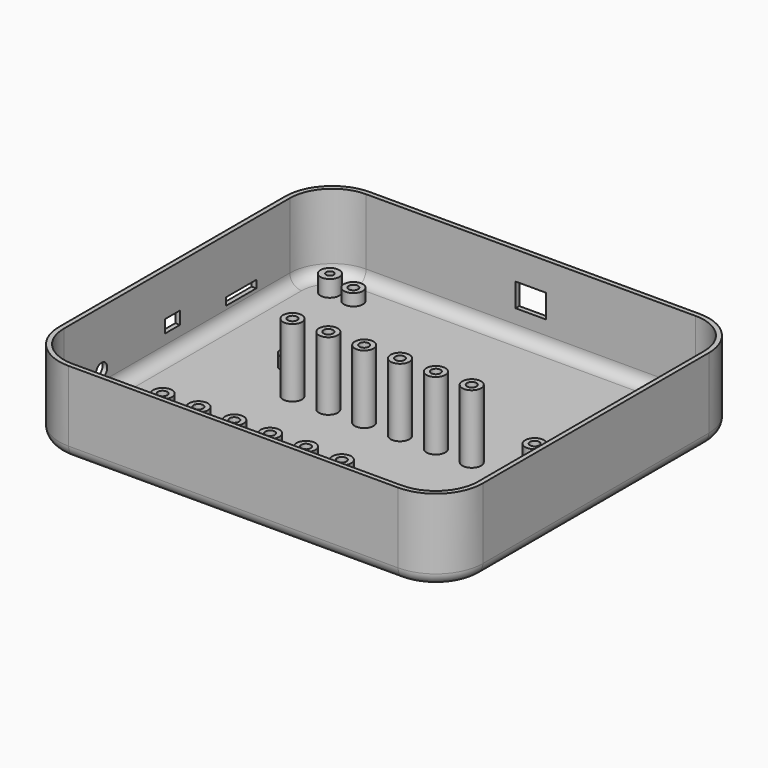
from build123d import *

# Parameters (mm, degrees)
CYLINDER_R              = 2.05
CYLINDER_DEPTH          = 8
CYLINDER_ROLL_ANGLE     = 90
SKETCH005_W             = 8
SKETCH005_H             = 6
PAD005_DEPTH            = 5
CYLINDER001_R           = 3
CYLINDER001_DEPTH       = 4
CYLINDER001_PITCH_ANGLE = 90
BOX002_W                = 10.5
BOX002_H                = 16
BOX002_DEPTH            = 3.2
BOX001_W                = 12.7
BOX001_H                = 8
BOX001_DEPTH            = 5.4
BOX_W                   = 13
BOX_H                   = 17
BOX_DEPTH               = 10
SKETCH003_R             = 4
SKETCH003_R_2           = 2
PAD003_DEPTH            = 5
SKETCH002_R             = 4
SKETCH002_R_2           = 1.6
PAD002_DEPTH            = 7
SKETCH001_W             = 176
SKETCH001_H             = 156
PAD001_DEPTH            = 33
FILLET002_R             = 18
FILLET003_R             = 5
SKETCH_W                = 180
SKETCH_H                = 160
SKETCH_R                = 1.6
PAD_DEPTH               = 35
FILLET_R                = 20
FILLET001_R             = 5
CHAMFER_SIZE            = 1.65
SKETCH004_R             = 4
SKETCH004_R_2           = 2
PAD004_DEPTH            = 29


with BuildPart() as zylinder:
    # Cylinder → Cylinder (new body)
    with BuildSketch(Plane.XY):
        Circle(CYLINDER_R)
    extrude(amount=CYLINDER_DEPTH)


with BuildPart() as zylinder_1:
    # Cylinder roll: moved
    add(zylinder.part.rotate(Axis((0, 0, 0), (1, 0, 0)), CYLINDER_ROLL_ANGLE))


with BuildPart() as zylinder_2:
    # Cylinder placement: moved
    add(zylinder_1.part.moved(Location((34, 19, 4.5))))


with BuildPart() as vibrationmotor:
    # Sketch005 → Pad005 (new body)
    with BuildSketch(Plane.XY.offset(2)):
        with Locations((34, 15)):
            Rectangle(SKETCH005_W, SKETCH005_H)
    extrude(amount=PAD005_DEPTH)

    # Cut002: cut Zylinder
    add(zylinder_2.part, mode=Mode.SUBTRACT)


with BuildPart() as obj1:
    # Cylinder001 → Cylinder001 (new body)
    with BuildSketch(Plane.XY):
        Circle(CYLINDER001_R)
    extrude(amount=CYLINDER001_DEPTH)


with BuildPart() as obj1_1:
    # Cylinder001 pitch: moved
    add(obj1.part.rotate(Axis((0, 0, 0), (0, 1, 0)), CYLINDER001_PITCH_ANGLE))


with BuildPart() as obj1_2:
    # Cylinder001 placement: moved
    add(obj1_1.part.moved(Location((-1, 40, 11.1))))


with BuildPart() as sd_card:
    # Box002 → Box002 (new body)
    with BuildSketch(Plane(origin=(-1, 106.17, 8.5), x_dir=(1, 0, 0), z_dir=(0, 0, 1))):
        with Locations((5.25, 8)):
            Rectangle(BOX002_W, BOX002_H)
    extrude(amount=BOX002_DEPTH)


with BuildPart() as on_off_switch:
    # Box001 → Box001 (new body)
    with BuildSketch(Plane(origin=(-2, 73.65, 11.3), x_dir=(1, 0, 0), z_dir=(0, 0, 1))):
        with Locations((6.35, 4)):
            Rectangle(BOX001_W, BOX001_H)
    extrude(amount=BOX001_DEPTH)


with BuildPart() as usb:
    # Box → Box (new body)
    with BuildSketch(Plane(origin=(83.5, 150, 13), x_dir=(1, 0, 0), z_dir=(0, 0, 1))):
        with Locations((6.5, 8.5)):
            Rectangle(BOX_W, BOX_H)
    extrude(amount=BOX_DEPTH)


with BuildPart() as pad003:
    # Sketch003 → Pad003 (new body)
    with BuildSketch(Plane.XY.offset(2)):
        with Locations((25, 145)):
            Circle(SKETCH003_R)
        with Locations((25, 145)):
            Circle(SKETCH003_R_2, mode=Mode.SUBTRACT)
        with Locations((155, 145)):
            Circle(SKETCH003_R)
        with Locations((155, 145)):
            Circle(SKETCH003_R_2, mode=Mode.SUBTRACT)
        with Locations((38, 95)):
            Circle(SKETCH003_R)
        with Locations((38, 95)):
            Circle(SKETCH003_R_2, mode=Mode.SUBTRACT)
        with Locations((142, 95)):
            Circle(SKETCH003_R)
        with Locations((142, 95)):
            Circle(SKETCH003_R_2, mode=Mode.SUBTRACT)
        with Locations((25, 15)):
            Circle(SKETCH003_R)
        with Locations((25, 15)):
            Circle(SKETCH003_R_2, mode=Mode.SUBTRACT)
        with Locations((155, 15)):
            Circle(SKETCH003_R)
        with Locations((155, 15)):
            Circle(SKETCH003_R_2, mode=Mode.SUBTRACT)
    extrude(amount=PAD003_DEPTH)


with BuildPart() as pad002:
    # Sketch002 → Pad002 (new body)
    with BuildSketch(Plane.XY.offset(2)):
        with Locations((15, 15)):
            Circle(SKETCH002_R)
        with Locations((15, 15)):
            Circle(SKETCH002_R_2, mode=Mode.SUBTRACT)
        with Locations((165, 15)):
            Circle(SKETCH002_R)
        with Locations((165, 15)):
            Circle(SKETCH002_R_2, mode=Mode.SUBTRACT)
        with Locations((165, 145)):
            Circle(SKETCH002_R)
        with Locations((165, 145)):
            Circle(SKETCH002_R_2, mode=Mode.SUBTRACT)
        with Locations((15, 145)):
            Circle(SKETCH002_R)
        with Locations((15, 145)):
            Circle(SKETCH002_R_2, mode=Mode.SUBTRACT)
    extrude(amount=PAD002_DEPTH)


with BuildPart() as fillet003:
    # Sketch001 → Pad001 (new body)
    with BuildSketch(Plane.XY.offset(2)):
        with Locations((90, 80)):
            Rectangle(SKETCH001_W, SKETCH001_H)
    extrude(amount=PAD001_DEPTH)

    # Fillet002
    fillet002_edges = [fillet003.edges().sort_by_distance(p)[0] for p in [
        (2, 2, 18.5),
        (2, 158, 18.5),
        (178, 158, 18.5),
        (178, 2, 18.5),
    ]]
    fillet(fillet002_edges, radius=FILLET002_R)

    # Fillet003
    fillet003_edges = [fillet003.edges().sort_by_distance(p)[0] for p in [
        (7.272078, 7.272078, 2),
        (90, 2, 2),
        (2, 80, 2),
        (7.272078, 152.727922, 2),
        (90, 158, 2),
        (172.727922, 152.727922, 2),
        (178, 80, 2),
        (172.727922, 7.272078, 2),
    ]]
    fillet(fillet003_edges, radius=FILLET003_R)


with BuildPart() as chamfer_body:
    # Sketch → Pad (new body)
    with BuildSketch(Plane.XY):
        with Locations((90, 80)):
            Rectangle(SKETCH_W, SKETCH_H)
        with Locations((15, 145)):
            Circle(SKETCH_R, mode=Mode.SUBTRACT)
        with Locations((15, 15)):
            Circle(SKETCH_R, mode=Mode.SUBTRACT)
        with Locations((165, 15)):
            Circle(SKETCH_R, mode=Mode.SUBTRACT)
        with Locations((165, 145)):
            Circle(SKETCH_R, mode=Mode.SUBTRACT)
    extrude(amount=PAD_DEPTH)

    # Fillet
    fillet_edges = [chamfer_body.edges().sort_by_distance(p)[0] for p in [
        (0, 0, 17.5),
        (180, 0, 17.5),
        (180, 160, 17.5),
        (0, 160, 17.5),
    ]]
    fillet(fillet_edges, radius=FILLET_R)

    # Fillet001
    fillet001_edges = [chamfer_body.edges().sort_by_distance(p)[0] for p in [
        (90, 0, 0),
        (5.857864, 5.857864, 0),
        (0, 80, 0),
        (5.857864, 154.142136, 0),
        (90, 160, 0),
        (174.142136, 154.142136, 0),
        (180, 80, 0),
        (174.142136, 5.857864, 0),
    ]]
    fillet(fillet001_edges, radius=FILLET001_R)

    # Cut: cut Fillet003
    add(fillet003.part, mode=Mode.SUBTRACT)

    # Chamfer
    chamfer_edges = [chamfer_body.edges().sort_by_distance(p)[0] for p in [
        (13.4, 15, 0),
        (163.4, 15, 0),
        (163.4, 145, 0),
        (13.4, 145, 0),
    ]]
    chamfer(chamfer_edges, length=CHAMFER_SIZE)


with BuildPart() as cut005:
    # Sketch004 → Pad004 (new body)
    with BuildSketch(Plane.XY.offset(2)):
        with Locations((51.92, 10)):
            Circle(SKETCH004_R)
        with Locations((51.92, 10)):
            Circle(SKETCH004_R_2, mode=Mode.SUBTRACT)
        with Locations((67.152, 10)):
            Circle(SKETCH004_R)
        with Locations((67.152, 10)):
            Circle(SKETCH004_R_2, mode=Mode.SUBTRACT)
        with Locations((82.384, 10)):
            Circle(SKETCH004_R)
        with Locations((82.384, 10)):
            Circle(SKETCH004_R_2, mode=Mode.SUBTRACT)
        with Locations((97.616, 10)):
            Circle(SKETCH004_R)
        with Locations((97.616, 10)):
            Circle(SKETCH004_R_2, mode=Mode.SUBTRACT)
        with Locations((112.848, 10)):
            Circle(SKETCH004_R)
        with Locations((112.848, 10)):
            Circle(SKETCH004_R_2, mode=Mode.SUBTRACT)
        with Locations((128.08, 10)):
            Circle(SKETCH004_R)
        with Locations((128.08, 10)):
            Circle(SKETCH004_R_2, mode=Mode.SUBTRACT)
        with Locations((51.92, 79)):
            Circle(SKETCH004_R)
        with Locations((51.92, 79)):
            Circle(SKETCH004_R_2, mode=Mode.SUBTRACT)
        with Locations((67.152, 79)):
            Circle(SKETCH004_R)
        with Locations((67.152, 79)):
            Circle(SKETCH004_R_2, mode=Mode.SUBTRACT)
        with Locations((82.384, 79)):
            Circle(SKETCH004_R)
        with Locations((82.384, 79)):
            Circle(SKETCH004_R_2, mode=Mode.SUBTRACT)
        with Locations((97.616, 79)):
            Circle(SKETCH004_R)
        with Locations((97.616, 79)):
            Circle(SKETCH004_R_2, mode=Mode.SUBTRACT)
        with Locations((112.848, 79)):
            Circle(SKETCH004_R)
        with Locations((112.848, 79)):
            Circle(SKETCH004_R_2, mode=Mode.SUBTRACT)
        with Locations((128.08, 79)):
            Circle(SKETCH004_R)
        with Locations((128.08, 79)):
            Circle(SKETCH004_R_2, mode=Mode.SUBTRACT)
    extrude(amount=PAD004_DEPTH)

    # Fusion: union Pad003, Pad002, Chamfer body
    add(pad003.part)
    add(pad002.part)
    add(chamfer_body.part)

    # Cut001: cut USB
    add(usb.part, mode=Mode.SUBTRACT)

    # Cut003: cut ON_OFF_SWITCH
    add(on_off_switch.part, mode=Mode.SUBTRACT)

    # Cut004: cut SD_Card
    add(sd_card.part, mode=Mode.SUBTRACT)

    # Cut005: cut obj1
    add(obj1_2.part, mode=Mode.SUBTRACT)


solid = Compound([vibrationmotor.part, cut005.part])
